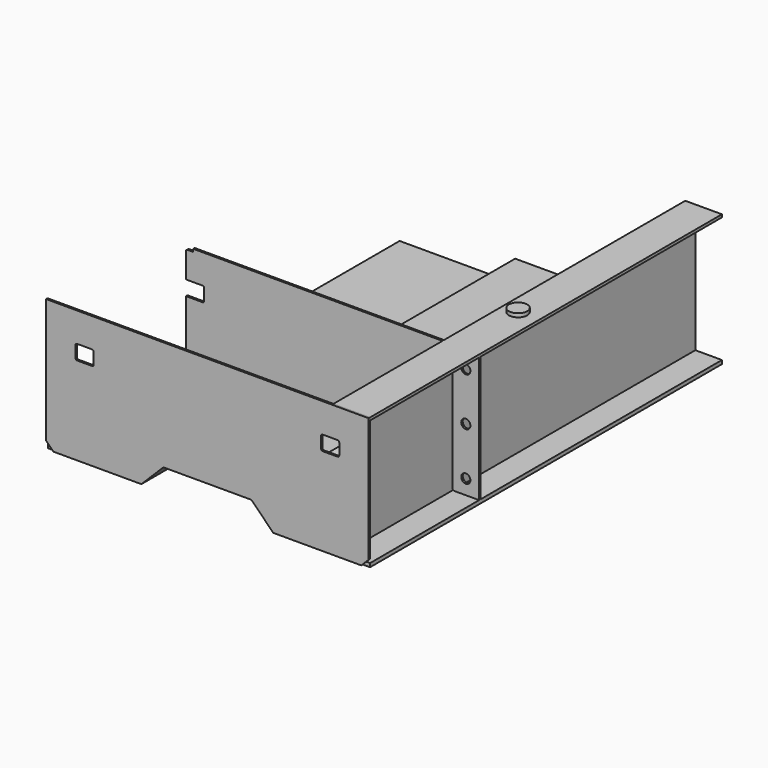
from build123d import *

# Parameters (mm, degrees)
F1_DEPTH  = 6.35
F2_W      = 254
F2_H      = 19.05
F3_DEPTH  = 3048
F5_DEPTH  = 3048
F6_W      = 19.05
F6_H      = 869.95
F7_DEPTH  = 3048
F10_DEPTH = 12.7
F11_R     = 31.75
F12_DEPTH = 12.7
F13_R     = 63.5
F14_DEPTH = 25.4


with BuildPart() as f1:
    # F0 (on Front) → F1 (new body, symmetric)
    with BuildSketch(Plane.XZ):
        Polygon((2235.2, 0), (0, 0), (0, -863.6), (50.8, -914.4), (660.4, -914.4), (812.8, -762), (1422.4, -762), (1574.8, -914.4), (2184.4, -914.4), (2235.2, -863.6), align=None)
        with BuildLine():
            ThreePointArc((203.2, -215.9), (206.9197438789, -206.9197438789), (215.9, -203.2))
            Line((215.9, -203.2), (317.5, -203.2))
            ThreePointArc((317.5, -203.2), (326.4802561211, -206.9197438789), (330.2, -215.9))
            Line((330.2, -215.9), (330.2, -292.1))
            ThreePointArc((330.2, -292.1), (326.4802561211, -301.0802561211), (317.5, -304.8))
            Line((317.5, -304.8), (215.9, -304.8))
            ThreePointArc((215.9, -304.8), (206.9197438789, -301.0802561211), (203.2, -292.1))
            Line((203.2, -292.1), (203.2, -215.9))
        make_face(mode=Mode.SUBTRACT)
        with BuildLine():
            Line((1905, -292.1), (1905, -215.9))
            ThreePointArc((1905, -215.9), (1908.7197438789, -206.9197438789), (1917.7, -203.2))
            Line((1917.7, -203.2), (2019.3, -203.2))
            ThreePointArc((2019.3, -203.2), (2028.2802561211, -206.9197438789), (2032, -215.9))
            Line((2032, -215.9), (2032, -292.1))
            ThreePointArc((2032, -292.1), (2028.2802561211, -301.0802561211), (2019.3, -304.8))
            Line((2019.3, -304.8), (1917.7, -304.8))
            ThreePointArc((1917.7, -304.8), (1908.7197438789, -301.0802561211), (1905, -292.1))
        make_face(mode=Mode.SUBTRACT)
    extrude(amount=F1_DEPTH, both=True)


with BuildPart() as f3:
    # F2 (on face) → F3 (new body)
    with BuildSketch(Plane(origin=(0, 6.35, 0), x_dir=(-1, 0, 0), z_dir=(0, 1, 0))):
        with Locations((-2108.2, -9.525)):
            Rectangle(F2_W, F2_H)
    extrude(amount=F3_DEPTH)


with BuildPart() as f5:
    # F4 (on face) → F5 (new body)
    with BuildSketch(Plane(origin=(0, 6.35, 0), x_dir=(-1, 0, 0), z_dir=(0, 1, 0))):
        Polygon((-2235.2, -889), (-2235.2, -914.4), (-1574.8, -914.4), (-1422.4, -762), (-812.8, -762), (-660.4, -914.4), (-1.4282464981, -914.4), (-1.4282464981, -889), (-649.8789755157, -889), (-802.2789755157, -736.6), (-1432.9210244843, -736.6), (-1585.3210244843, -889), align=None)
    extrude(amount=F5_DEPTH)


with BuildPart() as f7:
    # F6 (on face) → F7 (new body)
    with BuildSketch(Plane(origin=(0, 6.35, 0), x_dir=(-1, 0, 0), z_dir=(0, 1, 0))):
        with Locations((-2041.525, -454.025)):
            Rectangle(F6_W, F6_H)
    extrude(amount=F7_DEPTH)


with BuildPart() as f10:
    # F9 (on offset) → F10 (new body)
    with BuildSketch(Plane(origin=(0, 950.9242908865, 0), x_dir=(-1, 0, 0), z_dir=(0, 1, 0))):
        with BuildLine():
            Line((-2032, -304.8), (-2032, -889))
            Line((-2032, -889), (-1587.9512806053, -889))
            ThreePointArc((-1587.9512806053, -889), (-1585.5212408098, -888.5166350314), (-1583.4611525448, -887.1401280605))
            Line((-1583.4611525448, -887.1401280605), (-1432.9210244843, -736.6))
            Line((-1432.9210244843, -736.6), (-802.2789755157, -736.6))
            Line((-802.2789755157, -736.6), (-651.7388474552, -887.1401280605))
            ThreePointArc((-651.7388474552, -887.1401280605), (-649.6787591902, -888.5166350314), (-647.2487193947, -889))
            Line((-647.2487193947, -889), (-203.2, -889))
            Line((-203.2, -889), (-203.2, -304.8))
            Line((-203.2, -304.8), (-317.5, -304.8))
            ThreePointArc((-317.5, -304.8), (-326.4802561211, -301.0802561211), (-330.2, -292.1))
            Line((-330.2, -292.1), (-330.2, -215.9))
            ThreePointArc((-330.2, -215.9), (-326.4802561211, -206.9197438789), (-317.5, -203.2))
            Line((-317.5, -203.2), (-203.2, -203.2))
            Line((-203.2, -203.2), (-203.2, -31.75))
            ThreePointArc((-203.2, -31.75), (-206.9197438789, -22.7697438789), (-215.9, -19.05))
            Line((-215.9, -19.05), (-254, -19.05))
            Line((-254, -19.05), (-254, 0))
            Line((-254, 0), (-1981.2, 0))
            Line((-1981.2, 0), (-1981.2, -19.05))
            Line((-1981.2, -19.05), (-2019.3, -19.05))
            ThreePointArc((-2019.3, -19.05), (-2028.2802561211, -22.7697438789), (-2032, -31.75))
            Line((-2032, -31.75), (-2032, -203.2))
            Line((-2032, -203.2), (-1917.7, -203.2))
            ThreePointArc((-1917.7, -203.2), (-1908.7197438789, -206.9197438789), (-1905, -215.9))
            Line((-1905, -215.9), (-1905, -292.1))
            ThreePointArc((-1905, -292.1), (-1908.7197438789, -301.0802561211), (-1917.7, -304.8))
            Line((-1917.7, -304.8), (-2032, -304.8))
        make_face()
    extrude(amount=F10_DEPTH)


with BuildPart() as f12:
    # F11 (on offset) → F12 (new body)
    with BuildSketch(Plane(origin=(0, 950.9242908865, 0), x_dir=(-1, 0, 0), z_dir=(0, 1, 0))):
        with BuildLine():
            Line((-2051.05, -876.3), (-2051.05, -31.75))
            ThreePointArc((-2051.05, -31.75), (-2054.7697438789, -22.7697438789), (-2063.75, -19.05))
            Line((-2063.75, -19.05), (-2235.2, -19.05))
            Line((-2235.2, -19.05), (-2235.2, -889))
            Line((-2235.2, -889), (-2063.75, -889))
            ThreePointArc((-2063.75, -889), (-2054.7697438789, -885.2802561211), (-2051.05, -876.3))
        make_face()
        with Locations((-2143.125, -787.4)):
            Circle(F11_R, mode=Mode.SUBTRACT)
        with Locations((-2143.125, -454.0314514875)):
            Circle(F11_R, mode=Mode.SUBTRACT)
        with Locations((-2143.125, -120.65)):
            Circle(F11_R, mode=Mode.SUBTRACT)
    extrude(amount=F12_DEPTH)


with BuildPart() as f14:
    # F13 (on face) → F14 (new body)
    with BuildSketch(Plane.XY):
        with Locations((2088.9689922333, 1470.9676504135)):
            Circle(F13_R)
    extrude(amount=F14_DEPTH)


solid = Compound([f1.part, f3.part, f5.part, f7.part, f10.part, f12.part, f14.part])
